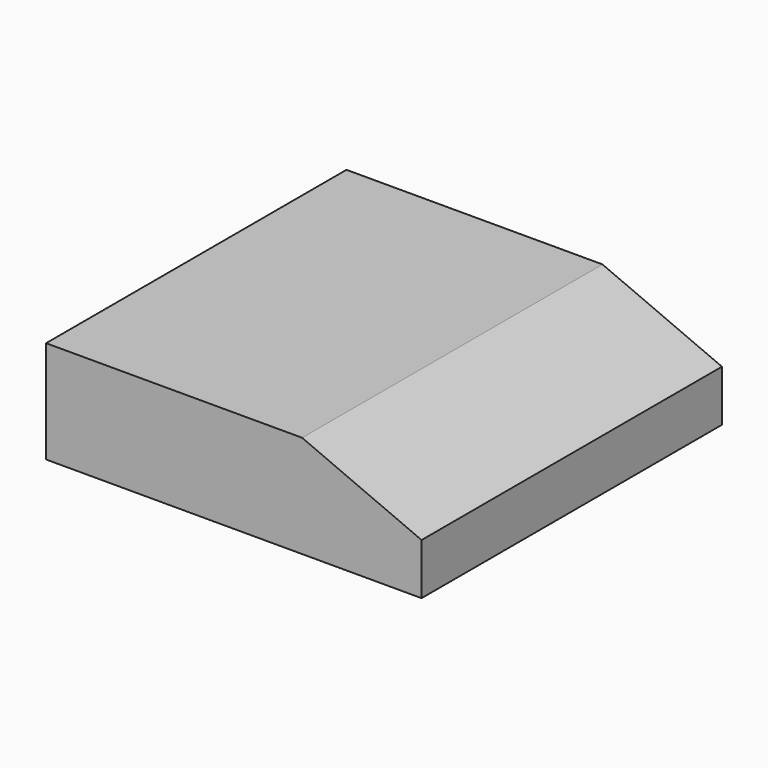
from build123d import *

# Parameters (mm, degrees)
PAD_DEPTH       = 11
SKETCH001_W     = 20
SKETCH001_H     = 20
POCKET_DEPTH    = 2
POCKET001_DEPTH = 8


with BuildPart() as part:
    # Sketch → Pad (new body, symmetric)
    with BuildSketch(Plane.XZ):
        Polygon((-11, 0), (11, 0), (11, 3), (4, 6), (-11, 6), align=None)
    extrude(amount=PAD_DEPTH, both=True)

    # Sketch001 → Pocket (cut)
    with BuildSketch(Plane.XY):
        Rectangle(SKETCH001_W, SKETCH001_H)
    extrude(amount=POCKET_DEPTH, mode=Mode.SUBTRACT)

    # Sketch002 → Pocket001 (cut, symmetric)
    with BuildSketch(Plane.XZ):
        Polygon((-8, -1), (-8, 5), (3.794742, 5), (8, 3.197747), (8, -1), align=None)
    extrude(amount=POCKET001_DEPTH, both=True, mode=Mode.SUBTRACT)


solid = part.part
